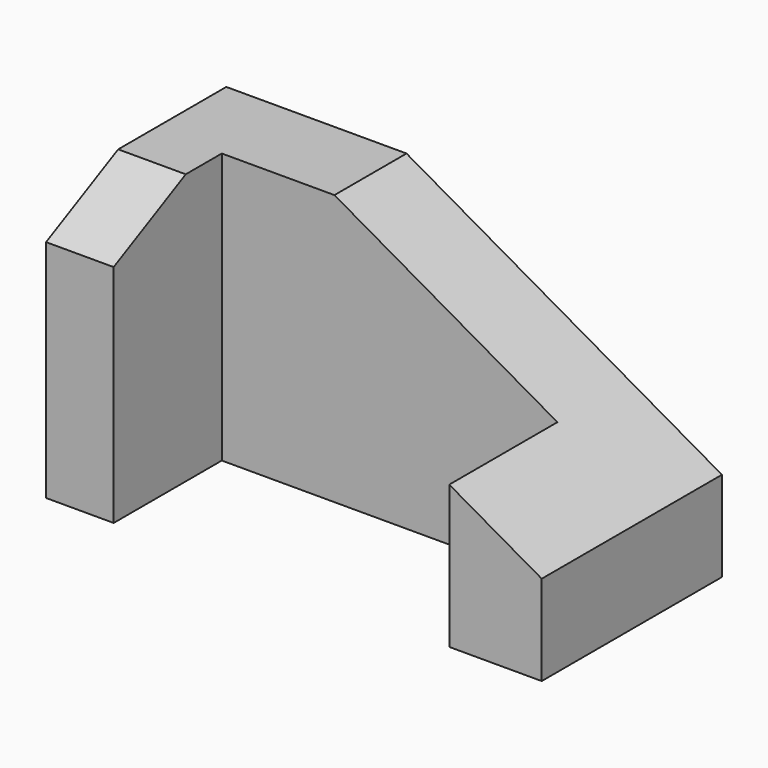
from build123d import *

# Parameters (mm, degrees)
F0_W     = 110
F0_H     = 60
F1_DEPTH = 50
F2_W     = 74.486891
F2_H     = 60
F3_DEPTH = 30
F5_DEPTH = 15
F7_DEPTH = 50


with BuildPart() as f1:
    # F0 (on Front) → F1 (new body)
    with BuildSketch(Plane.XZ):
        with Locations((5.968994, 30)):
            Rectangle(F0_W, F0_H)
    extrude(amount=F1_DEPTH)

    # F2 (on face) → F3 (cut)
    with BuildSketch(Plane.XZ.offset(50)):
        with Locations((3.212439, 30)):
            Rectangle(F2_W, F2_H)
    extrude(amount=-F3_DEPTH, mode=Mode.SUBTRACT)

    # F4 (on face) → F5 (cut)
    with BuildSketch(Plane(origin=(-49.031006, 0, 0), x_dir=(0, -1, 0), z_dir=(-1, 0, 0))):
        Polygon((50, 60), (30, 60), (50, 50), align=None)
    extrude(amount=-F5_DEPTH, mode=Mode.SUBTRACT)

    # F6 (on face) → F7 (cut)
    with BuildSketch(Plane(origin=(0, 0, 0), x_dir=(-1, 0, 0), z_dir=(0, 1, 0))):
        Polygon((-60.968994, 20), (9.031006, 60), (-60.968994, 60), align=None)
    extrude(amount=-F7_DEPTH, mode=Mode.SUBTRACT)


solid = f1.part
